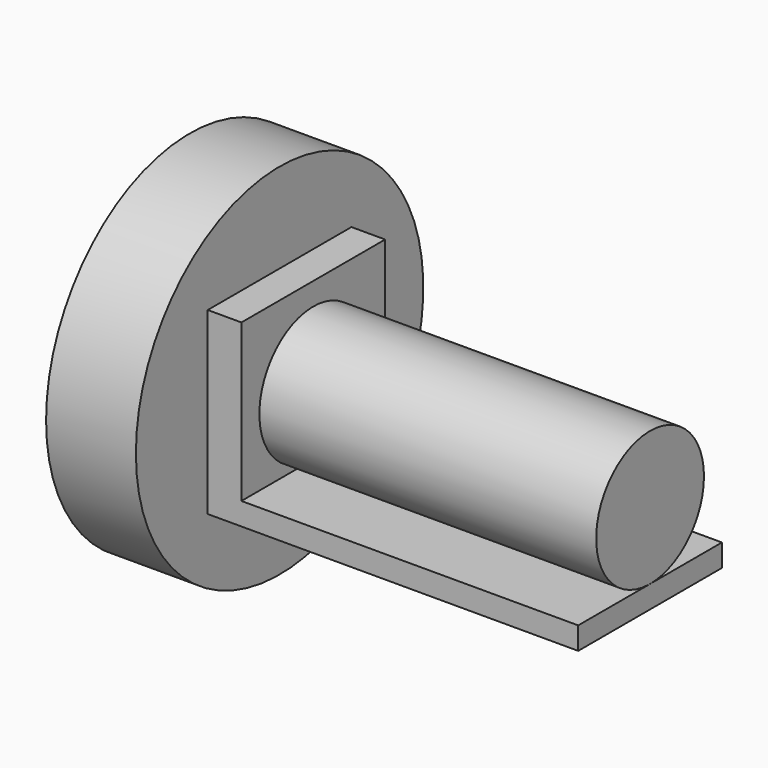
from build123d import *

# Parameters (mm, degrees)
F0_W     = 9.525
F0_H     = 50.8
F1_DEPTH = 50.8
F2_W     = 50.8
F2_H     = 6.35
F3_DEPTH = 95.25
F4_R     = 50.8
F4_R_2   = 44.45
F5_DEPTH = 25.4
F6_R     = 44.45
F7_DEPTH = 6.35
F9_DEPTH = 95.25


with BuildPart() as f1:
    # F0 (on Top) → F1 (new body)
    with BuildSketch(Plane.XY):
        with Locations((4.7625, -25.4)):
            Rectangle(F0_W, F0_H)
    extrude(amount=F1_DEPTH)

    # F2 (on face) → F3 (join)
    with BuildSketch(Plane.YZ.offset(9.525)):
        with Locations((-25.4, 3.175)):
            Rectangle(F2_W, F2_H)
    extrude(amount=F3_DEPTH)

    # F4 (on face) → F5 (join)
    with BuildSketch(Plane(origin=(0, 0, 0), x_dir=(0, -1, 0), z_dir=(-1, 0, 0))):
        with Locations((25.4, 25.4)):
            Circle(F4_R)
        with Locations((25.4, 25.4)):
            Circle(F4_R_2, mode=Mode.SUBTRACT)
        with Locations((25.4, 25.4)):
            Circle(F4_R_2)
        Polygon((0, 25.4), (0, 50.8), (50.8, 50.8), (50.8, 0), (0, 0), align=None, mode=Mode.SUBTRACT)
        Polygon((50.8, 50.8), (0, 50.8), (0, 25.4), (0, 0), (50.8, 0), align=None)
    extrude(amount=F5_DEPTH)

    # F6 (on face) → F7 (cut)
    with BuildSketch(Plane(origin=(-25.4, 0, 0), x_dir=(0, -1, 0), z_dir=(-1, 0, 0))):
        with Locations((25.4, 25.4)):
            Circle(F6_R)
    extrude(amount=-F7_DEPTH, mode=Mode.SUBTRACT)


with BuildPart() as f9:
    # F8 (on face) → F9 (new body)
    with BuildSketch(Plane.YZ.offset(9.525)):
        with BuildLine():
            ThreePointArc((-6.35, 25.4), (-11.9296158184, 38.8703841816), (-25.4, 44.45))
            ThreePointArc((-25.4, 44.45), (-44.45, 25.4), (-25.4, 6.35))
            ThreePointArc((-25.4, 6.35), (-11.9296158184, 11.9296158184), (-6.35, 25.4))
        make_face()
    extrude(amount=F9_DEPTH)


solid = Compound([f1.part, f9.part])
